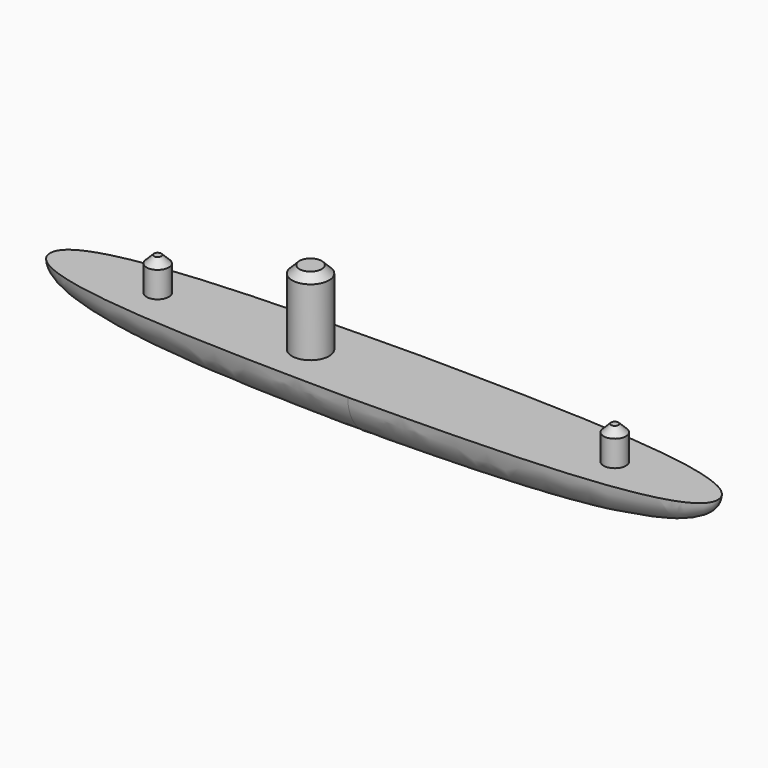
from build123d import *

# Parameters (mm, degrees)
F2_ANGLE = 180
F3_R     = 1.5
F4_DEPTH = 4.5
F3_R_2   = 2.5
F5_DEPTH = 10
F6_SIZE  = 1


with BuildPart() as f2:
    # F1 (on Top) → F2 (revolve)
    with BuildSketch(Plane.XY):
        with BuildLine():
            Line((45, 0), (-45, 0))
            add(Edge.make_bspline(
                [(-45, 0), (-45, -5.698118126), (-19.5767879486, -5.9), (0, -6.1)],
                knots=[0, 0, 0, 0, 1, 1, 1, 1], degree=3))
            add(Edge.make_bspline(
                [(45, 0), (45, -5.698118126), (19.5767879486, -5.9), (0, -6.1)],
                knots=[0, 0, 0, 0, 1, 1, 1, 1], degree=3))
        make_face()
    revolve(axis=Axis((0, 0, 0), (1, 0, 0)), revolution_arc=F2_ANGLE)

    # F3 (on face) → F4 (join)
    with BuildSketch(Plane.XY):
        with Locations((-30.5, 0)):
            Circle(F3_R)
        with Locations((31.1, 0)):
            Circle(F3_R)
    extrude(amount=F4_DEPTH)

    # F3 (on face) → F5 (join)
    with BuildSketch(Plane.XY):
        with Locations((-9.9, 0)):
            Circle(F3_R_2)
    extrude(amount=F5_DEPTH)

    # F6
    f6_edges = [f2.edges().sort_by_distance(p)[0] for p in [
        (-32, 0, 4.5),
        (-12.4, 0, 10),
        (29.6, 0, 4.5),
    ]]
    chamfer(f6_edges, length=F6_SIZE)


solid = f2.part
